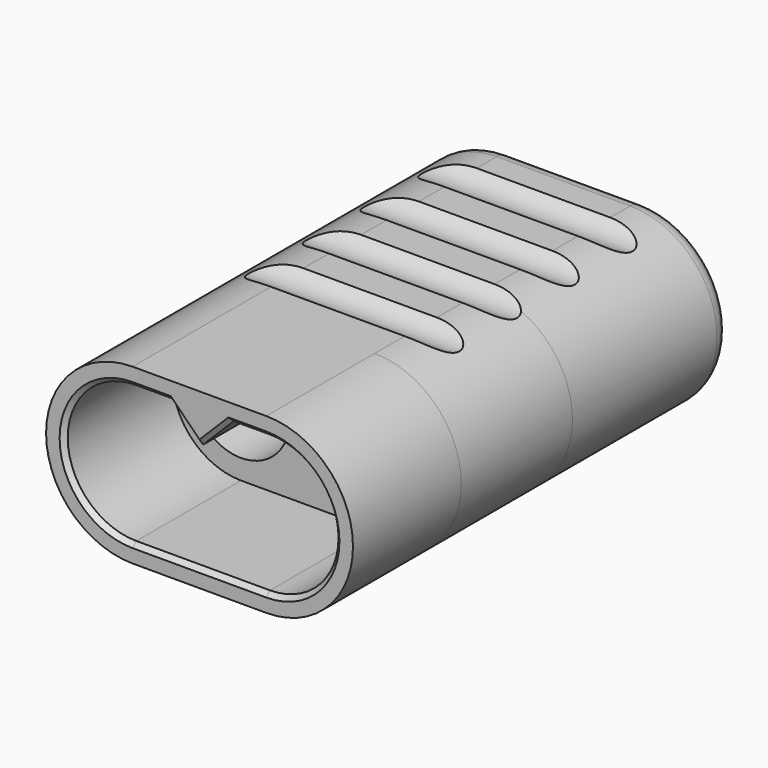
from build123d import *

# Parameters (mm, degrees)
F0_R      = 2.8
F1_DEPTH  = 3
F0_R_2    = 2.425
F2_DEPTH  = 2.2
F3_R      = 2.7
F4_DEPTH  = 2.5
F6_DEPTH  = 7.5
F7_R      = 3.2
F8_DEPTH  = 11
F9_R      = 1
F10_SIZE  = 0.25
F11_R     = 1.5
F12_DEPTH = 8.5


with BuildPart() as f1:
    # F0 (on Front) → F1 (new body)
    with BuildSketch(Plane.XZ):
        with BuildLine():
            Line((0, 4.8), (-3.7, 4.8))
            ThreePointArc((-3.7, 4.8), (-7.0941125497, 3.3941125497), (-8.5, 0))
            ThreePointArc((-8.5, 0), (-7.0941125497, -3.3941125497), (-3.7, -4.8))
            Line((-3.7, -4.8), (0, -4.8))
            Line((0, -4.8), (3.7, -4.8))
            ThreePointArc((3.7, -4.8), (7.0941125497, -3.3941125497), (8.5, 0))
            ThreePointArc((8.5, 0), (7.0941125497, 3.3941125497), (3.7, 4.8))
            Line((3.7, 4.8), (0, 4.8))
        make_face()
        with Locations((-3.7, 0)):
            Circle(F0_R, mode=Mode.SUBTRACT)
        with Locations((3.7, 0)):
            Circle(F0_R, mode=Mode.SUBTRACT)
    extrude(amount=-F1_DEPTH)

    # F0 (on Front) → F2 (join)
    with BuildSketch(Plane.XZ):
        with BuildLine():
            Line((0, 4.8), (-3.7, 4.8))
            ThreePointArc((-3.7, 4.8), (-7.0941125497, 3.3941125497), (-8.5, 0))
            ThreePointArc((-8.5, 0), (-7.0941125497, -3.3941125497), (-3.7, -4.8))
            Line((-3.7, -4.8), (0, -4.8))
            Line((0, -4.8), (3.7, -4.8))
            ThreePointArc((3.7, -4.8), (7.0941125497, -3.3941125497), (8.5, 0))
            ThreePointArc((8.5, 0), (7.0941125497, 3.3941125497), (3.7, 4.8))
            Line((3.7, 4.8), (0, 4.8))
        make_face()
        with Locations((-3.7, 0)):
            Circle(F0_R, mode=Mode.SUBTRACT)
        with Locations((3.7, 0)):
            Circle(F0_R, mode=Mode.SUBTRACT)
        with Locations((-3.7, 0)):
            Circle(F0_R)
        with Locations((-3.7, 0)):
            Circle(F0_R_2, mode=Mode.SUBTRACT)
        with Locations((3.7, 0)):
            Circle(F0_R)
        with Locations((3.7, 0)):
            Circle(F0_R_2, mode=Mode.SUBTRACT)
    extrude(amount=F2_DEPTH)

    # F3 (on face) → F4 (join)
    with BuildSketch(Plane.XZ.offset(2.2)):
        with BuildLine():
            ThreePointArc((3.7, -4.8), (8.5, 0), (3.7, 4.8))
            Line((3.7, 4.8), (-3.7, 4.8))
            ThreePointArc((-3.7, 4.8), (-8.5, 0), (-3.7, -4.8))
            Line((-3.7, -4.8), (3.7, -4.8))
        make_face()
        with Locations((-3.7, 0)):
            Circle(F3_R, mode=Mode.SUBTRACT)
        with Locations((3.7, 0)):
            Circle(F3_R, mode=Mode.SUBTRACT)
    extrude(amount=F4_DEPTH)

    # F5 (on face) → F6 (join)
    with BuildSketch(Plane.XZ.offset(4.7)):
        with BuildLine():
            ThreePointArc((-3.7, 4.8), (-8.5, 0), (-3.7, -4.8))
            Line((-3.7, -4.8), (3.7, -4.8))
            ThreePointArc((3.7, -4.8), (8.5, 0), (3.7, 4.8))
            Line((3.7, 4.8), (-3.7, 4.8))
        make_face()
        with BuildLine():
            Line((0, -3.8), (-3.7, -3.8))
            ThreePointArc((-3.7, -3.8), (-7.5, 0), (-3.7, 3.8))
            Line((-3.7, 3.8), (-1.7, 3.8))
            Line((-1.7, 3.8), (0, 2.1))
            Line((0, 2.1), (1.7, 3.8))
            Line((1.7, 3.8), (3.7, 3.8))
            ThreePointArc((3.7, 3.8), (7.5, 0), (3.7, -3.8))
            Line((3.7, -3.8), (0, -3.8))
        make_face(mode=Mode.SUBTRACT)
    extrude(amount=F6_DEPTH)

    # F7 (on face) → F8 (join)
    with BuildSketch(Plane(origin=(0, 3, 0), x_dir=(-1, 0, 0), z_dir=(0, 1, 0))):
        with BuildLine():
            ThreePointArc((3.7, -4.8), (8.5, 0), (3.7, 4.8))
            Line((3.7, 4.8), (-3.7, 4.8))
            ThreePointArc((-3.7, 4.8), (-8.5, 0), (-3.7, -4.8))
            Line((-3.7, -4.8), (3.7, -4.8))
        make_face()
        with Locations((-3.7, 0)):
            Circle(F7_R, mode=Mode.SUBTRACT)
        with Locations((3.7, 0)):
            Circle(F7_R, mode=Mode.SUBTRACT)
    extrude(amount=F8_DEPTH)

    # F9
    f9_edges = [f1.edges().sort_by_distance(p)[0] for p in [
        (0, 14, 4.8),
    ]]
    fillet(f9_edges, radius=F9_R)

    # F10
    f10_edges = [f1.edges().sort_by_distance(p)[0] for p in [
        (-7.5, -12.2, 0),
        (-2.7, -12.2, 3.8),
        (-0.85, -12.2, 2.95),
        (0.85, -12.2, 2.95),
        (2.7, -12.2, 3.8),
        (7.5, -12.2, 0),
        (0, -12.2, -3.8),
    ]]
    chamfer(f10_edges, length=F10_SIZE)

    # F11 (on Right) → F12 (cut, symmetric)
    with BuildSketch(Plane.YZ):
        with Locations((2.5, 5.8)):
            Circle(F11_R)
        with Locations((6.5, 5.8)):
            Circle(F11_R)
        with Locations((10.5, 5.8)):
            Circle(F11_R)
        with Locations((2.5, -5.8)):
            Circle(F11_R)
        with Locations((6.5, -5.8)):
            Circle(F11_R)
        with Locations((10.5, -5.8)):
            Circle(F11_R)
        with Locations((-1.5, 5.8)):
            Circle(F11_R)
        with Locations((-1.5, -5.8)):
            Circle(F11_R)
    extrude(amount=F12_DEPTH, both=True, mode=Mode.SUBTRACT)


solid = f1.part
